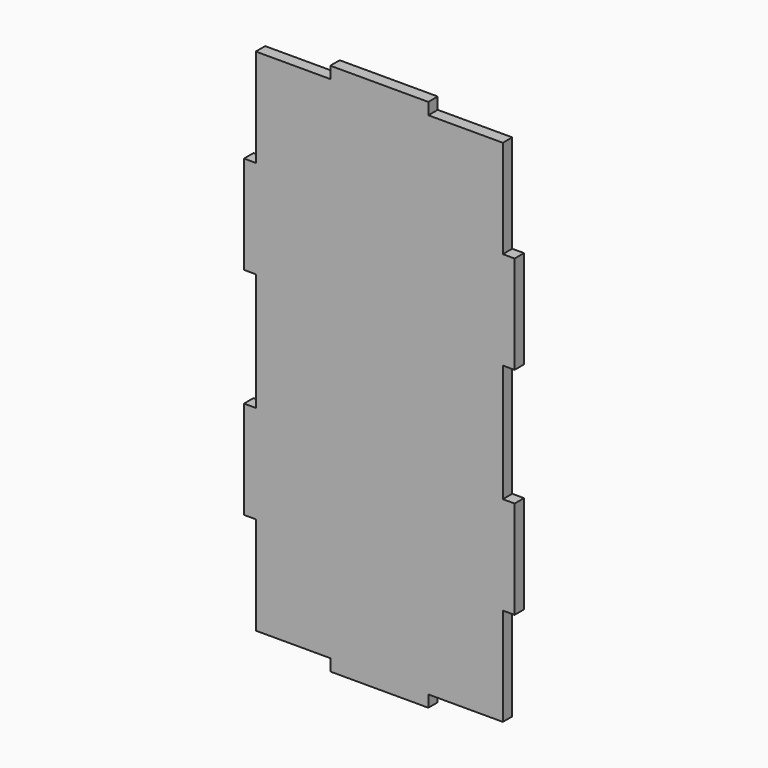
from build123d import *

# Parameters (mm, degrees)
F1_DEPTH = 3


with BuildPart() as f1:
    # F0 (on Front) → F1 (new body)
    with BuildSketch(Plane.XZ):
        Polygon((-31.5, 65), (-31.5, 40), (-34.5, 40), (-34.5, 15), (-31.5, 15), (-31.5, 0), (-31.5, -15), (-34.5, -15), (-34.5, -40), (-31.5, -40), (-31.5, -65), (-12.5, -65), (-12.5, -68), (0, -68), (12.5, -68), (12.5, -65), (31.5, -65), (31.5, -40), (34.5, -40), (34.5, -15), (31.5, -15), (31.5, 0), (31.5, 15), (34.5, 15), (34.5, 40), (31.5, 40), (31.5, 65), (12.5, 65), (12.5, 68), (0, 68), (-12.5, 68), (-12.5, 65), align=None)
    extrude(amount=F1_DEPTH)


solid = f1.part
